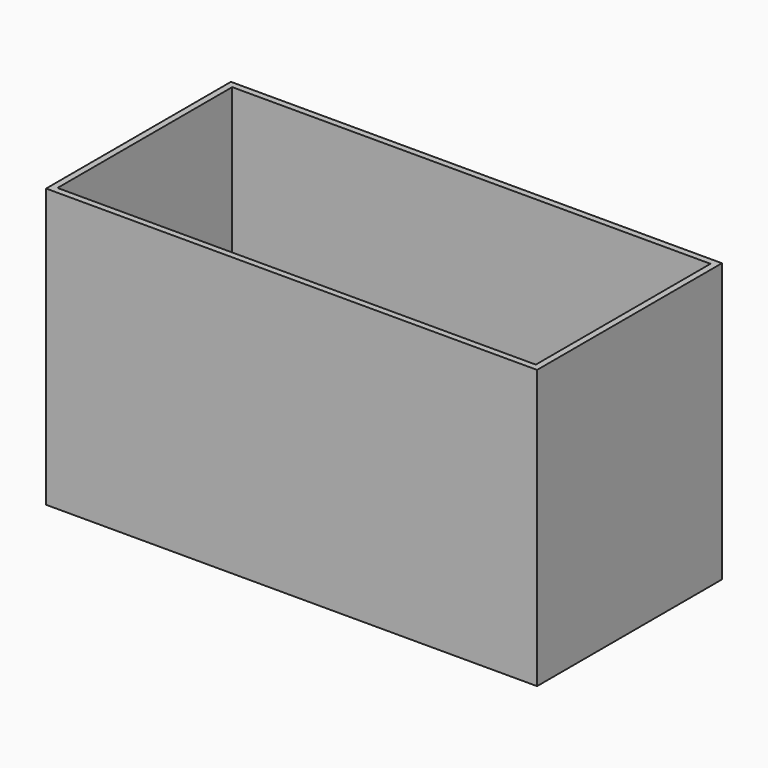
from build123d import *

# Parameters (mm, degrees)
F0_W     = 8500
F0_H     = 4000
F1_DEPTH = 4820
F2_T     = -110
F6_W     = 4000
F6_H     = 2300
F7_DEPTH = 110


with BuildPart() as f1:
    # F0 (on Top) → F1 (new body)
    with BuildSketch(Plane.XY):
        with Locations((4250, 2000)):
            Rectangle(F0_W, F0_H)
    extrude(amount=F1_DEPTH)

    # F2
    f2_openings = [f1.faces().sort_by_distance(p)[0] for p in [
        (4250, 2000, 4820),
    ]]
    offset(amount=F2_T, openings=f2_openings)

    # F6 (on offset) → F7 (join)
    with BuildSketch(Plane.YZ.offset(5850)):
        with Locations((2000, 1150)):
            Rectangle(F6_W, F6_H)
    extrude(amount=F7_DEPTH)


solid = f1.part
